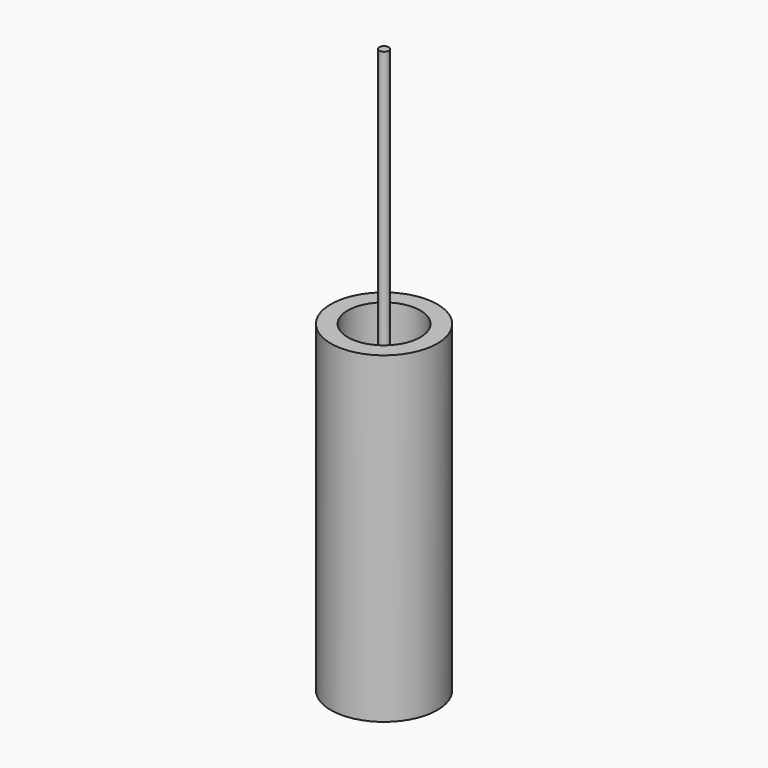
from build123d import *

# Parameters (mm, degrees)
F0_R      = 33
F1_DEPTH  = 200
F3_R      = 22.5
F4_DEPTH  = 70.001
F5_R      = 26
F6_DEPTH  = 130.001
F7_R      = 25
F8_DEPTH  = 100
F9_R      = 6
F10_DEPTH = 20
F11_R     = 3
F12_DEPTH = 200


with BuildPart() as f1:
    # F0 (on Top) → F1 (new body)
    with BuildSketch(Plane.XY):
        Circle(F0_R)
    extrude(amount=-F1_DEPTH)

    # F3 (on offset) → F4 (cut, through all)
    with BuildSketch(Plane.XY.offset(-70)):
        Circle(F3_R)
    extrude(amount=F4_DEPTH, mode=Mode.SUBTRACT)

    # F5 (on offset) → F6 (cut, through all)
    with BuildSketch(Plane.XY.offset(-70)):
        Circle(F5_R)
    extrude(amount=-F6_DEPTH, mode=Mode.SUBTRACT)


with BuildPart() as f8:
    # F7 (on offset) → F8 (new body)
    with BuildSketch(Plane.XY.offset(-70)):
        Circle(F7_R)
    extrude(amount=-F8_DEPTH)

    # F9 (on face) → F10 (join)
    with BuildSketch(Plane.XY.offset(-70)):
        Circle(F9_R)
    extrude(amount=F10_DEPTH)

    # F11 (on face) → F12 (join)
    with BuildSketch(Plane.XY.offset(-50)):
        Circle(F11_R)
    extrude(amount=F12_DEPTH)


solid = Compound([f1.part, f8.part])
